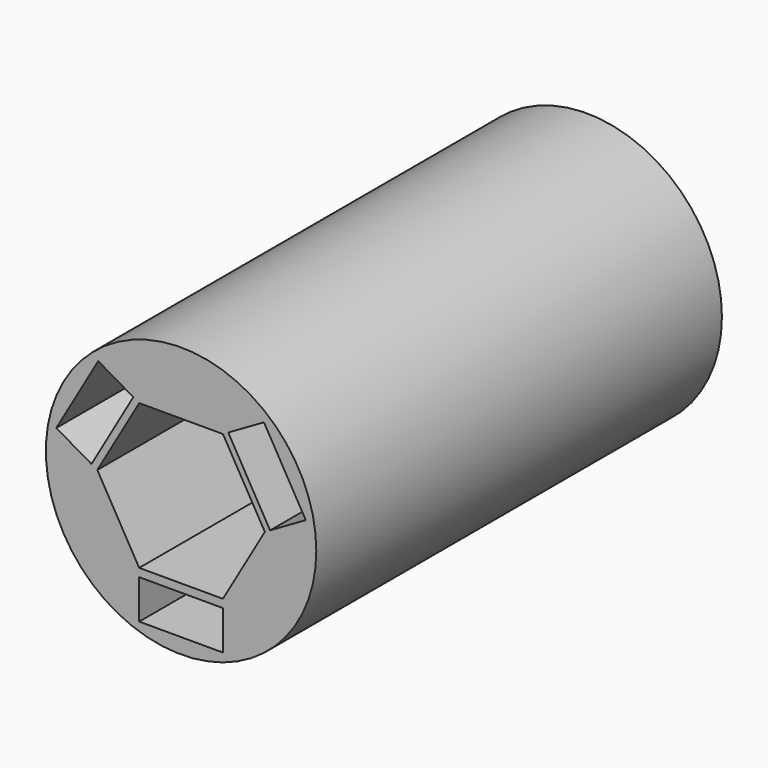
from build123d import *

# Parameters (mm, degrees)
F0_R     = 5.08
F0_W     = 3.146558
F0_H     = 1.470208
F1_DEPTH = 19.05


with BuildPart() as f1:
    # F0 (on Front) → F1 (new body)
    with BuildSketch(Plane.XZ):
        Circle(F0_R)
        Polygon((1.573279, 2.725), (3.146559, 0), (1.573279, -2.725), (-1.573279, -2.725), (-3.146559, 0), (-1.573279, 2.725), align=None, mode=Mode.SUBTRACT)
        with Locations((0, -3.767896)):
            Rectangle(F0_W, F0_H, mode=Mode.SUBTRACT)
        Polygon((-3.113073, 3.614), (-1.792822, 2.851753), (-3.366101, 0.126753), (-4.686352, 0.889), align=None, mode=Mode.SUBTRACT)
        Polygon((3.345394, 0.114797), (1.772114, 2.839797), (3.113073, 3.614), (4.686352, 0.889), align=None, mode=Mode.SUBTRACT)
    extrude(amount=F1_DEPTH)


with BuildPart() as f2_1:
    # F2: copy of F1
    add(f1.part)


solid = Compound([f1.part, f2_1.part])
